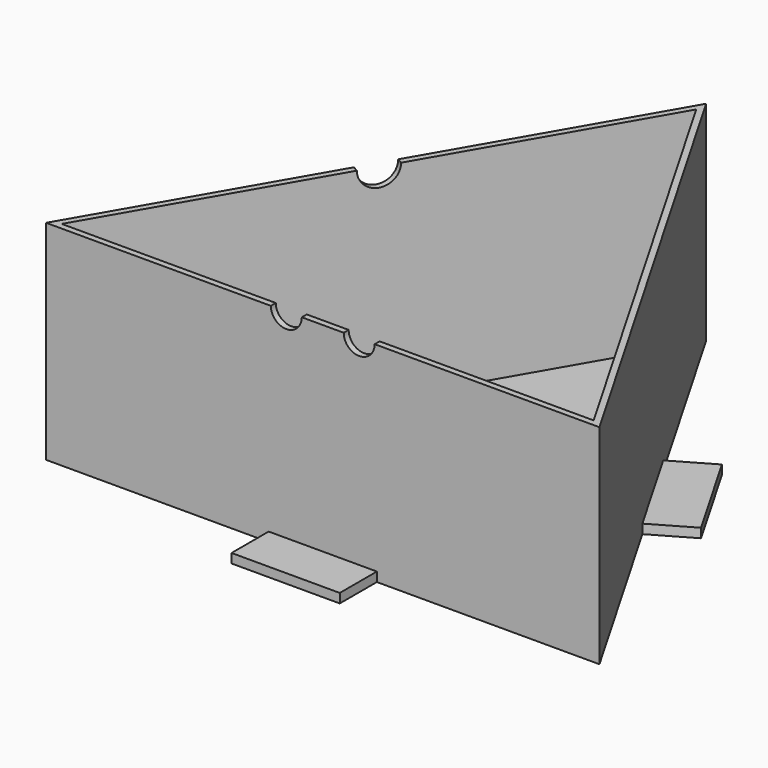
from build123d import *

# Parameters (mm, degrees)
F1_DEPTH = 67.5
F2_DEPTH = 1
F5_DEPTH = 25
F6_DEPTH = 25
F7_W     = 35
F7_H     = 3
F8_DEPTH = 15
F9_COUNT = 3


with BuildPart() as f1:
    # F0 (on Top) → F1 (new body)
    with BuildSketch(Plane.XY):
        Polygon((-89.4892917244, -51.6666666667), (89.4892917244, -51.6666666667), (0, 103.3333333333), align=None)
        Polygon((-86.0251901093, -49.6666666667), (0, 99.3333333333), (86.0251901093, -49.6666666667), align=None, mode=Mode.SUBTRACT)
    extrude(amount=F1_DEPTH)

    # F0 (on Top) → F2 (join)
    with BuildSketch(Plane.XY):
        Polygon((86.0251901093, -49.6666666667), (0, 99.3333333333), (-86.0251901093, -49.6666666667), align=None)
    extrude(amount=F2_DEPTH)

    # F4 (on face) → F5 (cut)
    with BuildSketch(Plane(origin=(-44.7446458622, 25.8333333333, 0), x_dir=(-0.5, -0.8660254038, 0), z_dir=(-0.8660254038, 0.5, 0))):
        with BuildLine():
            Line((-6, 67.5), (6, 67.5))
            ThreePointArc((6, 67.5), (0, 73.5), (-6, 67.5))
        make_face()
        with BuildLine():
            ThreePointArc((-6, 67.5), (0, 61.5), (6, 67.5))
            Line((6, 67.5), (-6, 67.5))
        make_face()
    extrude(amount=-F5_DEPTH, mode=Mode.SUBTRACT)

    # F3 (on face) → F6 (cut)
    with BuildSketch(Plane.XZ.offset(51.6666666667)):
        with BuildLine():
            ThreePointArc((-16.784738861, 67.5), (-11.784738861, 62.5), (-6.784738861, 67.5))
            Line((-6.784738861, 67.5), (-16.784738861, 67.5))
        make_face()
        with BuildLine():
            Line((-16.784738861, 67.5), (-6.784738861, 67.5))
            ThreePointArc((-6.784738861, 67.5), (-11.784738861, 72.5), (-16.784738861, 67.5))
        make_face()
        with BuildLine():
            ThreePointArc((16.784738861, 67.5), (11.784738861, 72.5), (6.784738861, 67.5))
            Line((6.784738861, 67.5), (16.784738861, 67.5))
        make_face()
        with BuildLine():
            Line((16.784738861, 67.5), (6.784738861, 67.5))
            ThreePointArc((6.784738861, 67.5), (11.784738861, 62.5), (16.784738861, 67.5))
        make_face()
    extrude(amount=-F6_DEPTH, mode=Mode.SUBTRACT)


with BuildPart() as f8:
    # F7 (on face) → F8 (new body)
    with BuildSketch(Plane.XZ.offset(51.6666666667)):
        with Locations((0, 1.5)):
            Rectangle(F7_W, F7_H)
    extrude(amount=F8_DEPTH)


with BuildPart() as f9_1:
    # F9: instance of F8
    add(f8.part.rotate(Axis((0, 0, 0), (0, 0, 1)), 1 * 360 / F9_COUNT))


with BuildPart() as f9_2:
    # F9: instance of F8
    add(f8.part.rotate(Axis((0, 0, 0), (0, 0, 1)), 2 * 360 / F9_COUNT))


solid = Compound([f1.part, f8.part, f9_1.part, f9_2.part])
